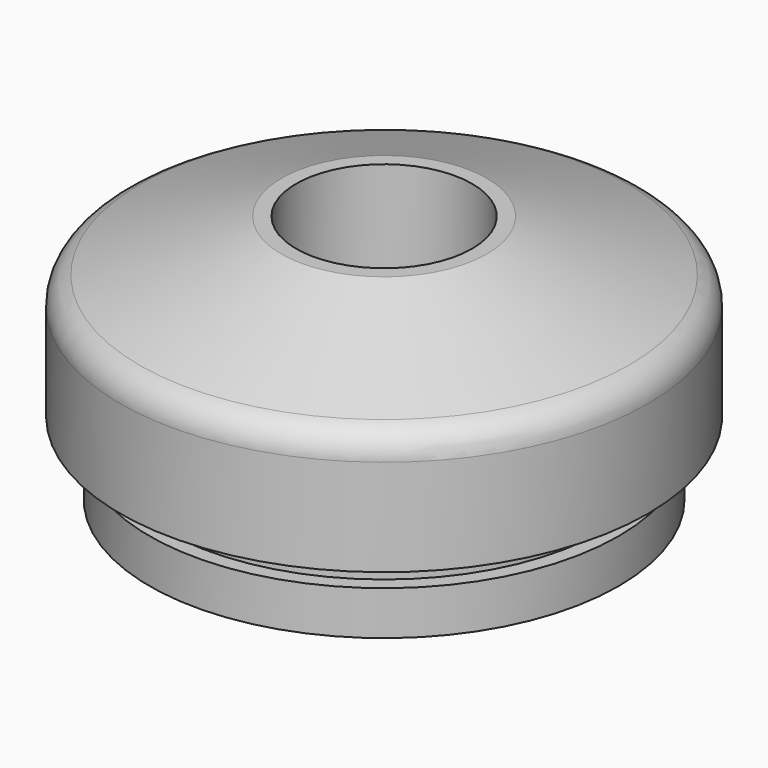
from build123d import *


with BuildPart() as f1:
    # F0 (on Front) → F1 (revolve)
    with BuildSketch(Plane.XZ):
        with BuildLine():
            Line((3.5, 8.5), (3, 8.5))
            Line((3, 8.5), (3, 4.454545))
            Line((3, 4.454545), (7, 3))
            Line((7, 3), (7, 0))
            Line((7, 0), (8, 0))
            Line((8, 0), (8, 1.5))
            Line((8, 1.5), (7.5, 1.5))
            Line((7.5, 1.5), (7.5, 2.5))
            Line((7.5, 2.5), (9, 2.5))
            Line((9, 2.5), (9, 5.799573))
            ThreePointArc((9, 5.799573), (8.819067, 6.37327), (8.341743, 6.739366))
            Line((8.341743, 6.739366), (3.5, 8.5))
        make_face()
    revolve(axis=Axis((0, 0, 4.25), (0, 0, 1)))


solid = f1.part
